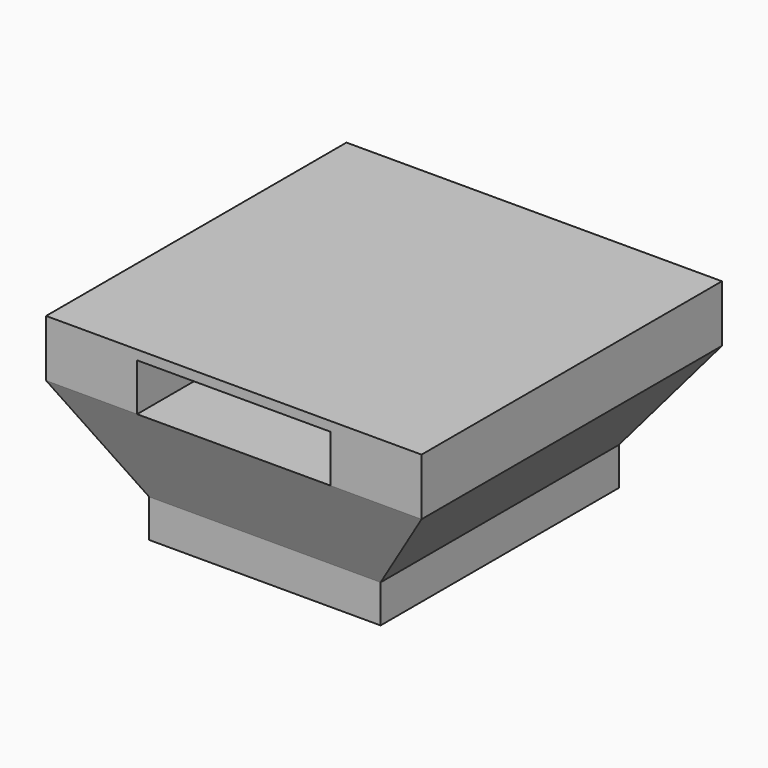
from build123d import *

# Parameters (mm, degrees)
SKETCH030_W           = 12.2
SKETCH030_H           = 15.7
SKETCH031_W           = 12.2
SKETCH031_H           = 15.7
SKETCH032_W           = 19.8
SKETCH032_H           = 19.8
SKETCH033_W           = 19.8
SKETCH033_H           = 19.8
SKETCH034_W           = 10.2
SKETCH034_H           = 15.2
POCKET018_DEPTH       = 2.5
POLARPATTERN003_COUNT = 2


with BuildPart() as part:
    # Sketch030 → AdditiveLoft section 0
    with BuildSketch(Plane.XY):
        Rectangle(SKETCH030_W, SKETCH030_H)
    # Sketch031 → AdditiveLoft section 1
    with BuildSketch(Plane.XY.offset(2)):
        Rectangle(SKETCH031_W, SKETCH031_H)
    # Sketch032 → AdditiveLoft section 2
    with BuildSketch(Plane.XY.offset(7)):
        Rectangle(SKETCH032_W, SKETCH032_H)
    # Sketch033 → AdditiveLoft section 3
    with BuildSketch(Plane.XY.offset(10)):
        Rectangle(SKETCH033_W, SKETCH033_H)
    loft(ruled=True)

    # Sketch034 → Pocket018 (cut)
    with BuildSketch(Plane.XY.offset(9.5)):
        with Locations((0, -11.5)):
            Rectangle(SKETCH034_W, SKETCH034_H)
    pocket018 = extrude(amount=-POCKET018_DEPTH, mode=Mode.SUBTRACT)

    # PolarPattern003: Pocket018 ×2 about axis
    polarpattern003_axis = Axis((0, 0, 9.5), (0, 0, 1))
    for i in range(1, POLARPATTERN003_COUNT):
        add(pocket018.rotate(polarpattern003_axis, i * 360 / POLARPATTERN003_COUNT), mode=Mode.SUBTRACT)


solid = part.part
